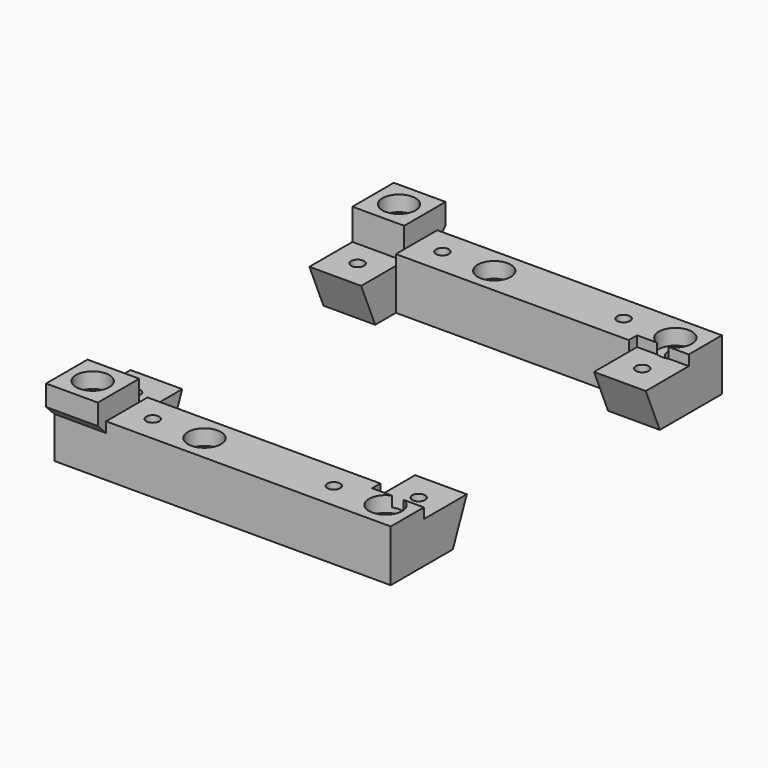
from build123d import *

# Parameters (mm, degrees)
BOX010_W          = 10
BOX010_H          = 11
BOX010_DEPTH      = 2
BOX011_W          = 10
BOX011_H          = 11
BOX011_DEPTH      = 2
BOX009_W          = 10
BOX009_H          = 11
BOX009_DEPTH      = 2
BOX008_W          = 10
BOX008_H          = 11
BOX008_DEPTH      = 2
CYLINDER018_R     = 3.2
CYLINDER018_DEPTH = 3
CYLINDER019_R     = 1.25
CYLINDER019_DEPTH = 10
CYLINDER017_R     = 3.2
CYLINDER017_DEPTH = 3
CYLINDER016_R     = 1.25
CYLINDER016_DEPTH = 10
CYLINDER011_R     = 1.25
CYLINDER011_DEPTH = 10
CYLINDER010_R     = 1.25
CYLINDER010_DEPTH = 10
CYLINDER014_R     = 1.25
CYLINDER014_DEPTH = 10
CYLINDER015_R     = 1.25
CYLINDER015_DEPTH = 10
CYLINDER007_R     = 3.2
CYLINDER007_DEPTH = 3
CYLINDER006_R     = 3.2
CYLINDER006_DEPTH = 3
CYLINDER004_R     = 1.6
CYLINDER004_DEPTH = 10
CYLINDER005_R     = 1.6
CYLINDER005_DEPTH = 10
BOX006_W          = 65
BOX006_H          = 10
BOX006_DEPTH      = 12
BOX006_ROLL_ANGLE = -23
BOX005_W          = 65
BOX005_H          = 10
BOX005_DEPTH      = 12
BOX005_ROLL_ANGLE = -23
CYLINDER002_R     = 1.25
CYLINDER002_DEPTH = 10
CYLINDER003_R     = 1.25
CYLINDER003_DEPTH = 10
CYLINDER001_R     = 1.25
CYLINDER001_DEPTH = 10
CYLINDER_R        = 1.25
CYLINDER_DEPTH    = 10
BOX004_W          = 45
BOX004_H          = 9
BOX004_DEPTH      = 10
BOX003_W          = 45
BOX003_H          = 9
BOX003_DEPTH      = 10
BOX001_W          = 65
BOX001_H          = 42
BOX001_DEPTH      = 10
BOX_W             = 65
BOX_H             = 80
BOX_DEPTH         = 10
BOX007_W          = 10
BOX007_H          = 10
BOX007_DEPTH      = 10
CHAMFER_SIZE      = 6
BOX002_W          = 10
BOX002_H          = 10
BOX002_DEPTH      = 10
CHAMFER002_SIZE   = 6


with BuildPart() as box010:
    # Box010 → Box010 (new body)
    with BuildSketch(Plane(origin=(55, 8, 8), x_dir=(1, 0, 0), z_dir=(0, 0, 1))):
        with Locations((5, 5.5)):
            Rectangle(BOX010_W, BOX010_H)
    extrude(amount=BOX010_DEPTH)


with BuildPart() as box011:
    # Box011 → Box011 (new body)
    with BuildSketch(Plane(origin=(55, 61, 8), x_dir=(1, 0, 0), z_dir=(0, 0, 1))):
        with Locations((5, 5.5)):
            Rectangle(BOX011_W, BOX011_H)
    extrude(amount=BOX011_DEPTH)


with BuildPart() as box009:
    # Box009 → Box009 (new body)
    with BuildSketch(Plane(origin=(0, 61, 8), x_dir=(1, 0, 0), z_dir=(0, 0, 1))):
        with Locations((5, 5.5)):
            Rectangle(BOX009_W, BOX009_H)
    extrude(amount=BOX009_DEPTH)


with BuildPart() as fusion019:
    # Box008 → Box008 (new body)
    with BuildSketch(Plane(origin=(0, 8, 8), x_dir=(1, 0, 0), z_dir=(0, 0, 1))):
        with Locations((5, 5.5)):
            Rectangle(BOX008_W, BOX008_H)
    extrude(amount=BOX008_DEPTH)

    # Fusion019: union Box010, Box011, Box009
    add(box010.part)
    add(box011.part)
    add(box009.part)


with BuildPart() as cylinder018:
    # Cylinder018 → Cylinder018 (new body)
    with BuildSketch(Plane(origin=(5, 3, 11), x_dir=(1, 0, 0), z_dir=(0, 0, 1))):
        Circle(CYLINDER018_R)
    extrude(amount=CYLINDER018_DEPTH)


with BuildPart() as fusion017:
    # Cylinder019 → Cylinder019 (new body)
    with BuildSketch(Plane(origin=(5, 3, 4), x_dir=(1, 0, 0), z_dir=(0, 0, 1))):
        Circle(CYLINDER019_R)
    extrude(amount=CYLINDER019_DEPTH)

    # Fusion017: union Cylinder018
    add(cylinder018.part)


with BuildPart() as fusion017_1:
    # Fusion017 placement: moved
    add(fusion017.part.moved(Location((0, 74, 0))))


with BuildPart() as cylinder017:
    # Cylinder017 → Cylinder017 (new body)
    with BuildSketch(Plane(origin=(5, 3, 11), x_dir=(1, 0, 0), z_dir=(0, 0, 1))):
        Circle(CYLINDER017_R)
    extrude(amount=CYLINDER017_DEPTH)


with BuildPart() as fusion018:
    # Cylinder016 → Cylinder016 (new body)
    with BuildSketch(Plane(origin=(5, 3, 4), x_dir=(1, 0, 0), z_dir=(0, 0, 1))):
        Circle(CYLINDER016_R)
    extrude(amount=CYLINDER016_DEPTH)

    # Fusion016: union Cylinder017
    add(cylinder017.part)

    # Fusion018: union Fusion017
    add(fusion017_1.part)


with BuildPart() as cylinder011:
    # Cylinder011 → Cylinder011 (new body)
    with BuildSketch(Plane.XY):
        Circle(CYLINDER011_R)
    extrude(amount=CYLINDER011_DEPTH)


with BuildPart() as fusion011:
    # Cylinder010 → Cylinder010 (new body)
    with BuildSketch(Plane(origin=(0, 70, 0), x_dir=(1, 0, 0), z_dir=(0, 0, 1))):
        Circle(CYLINDER010_R)
    extrude(amount=CYLINDER010_DEPTH)

    # Fusion011: union Cylinder011
    add(cylinder011.part)


with BuildPart() as fusion011_1:
    # Fusion011 placement: moved
    add(fusion011.part.moved(Location((50, 5, 0))))


with BuildPart() as cylinder014:
    # Cylinder014 → Cylinder014 (new body)
    with BuildSketch(Plane.XY):
        Circle(CYLINDER014_R)
    extrude(amount=CYLINDER014_DEPTH)


with BuildPart() as fusion012:
    # Cylinder015 → Cylinder015 (new body)
    with BuildSketch(Plane(origin=(0, 70, 0), x_dir=(1, 0, 0), z_dir=(0, 0, 1))):
        Circle(CYLINDER015_R)
    extrude(amount=CYLINDER015_DEPTH)

    # Fusion012: union Cylinder014
    add(cylinder014.part)


with BuildPart() as fusion012_1:
    # Fusion012 placement: moved
    add(fusion012.part.moved(Location((15, 5, 0))))


with BuildPart() as cylinder007:
    # Cylinder007 → Cylinder007 (new body)
    with BuildSketch(Plane(origin=(5, 0, 0), x_dir=(1, 0, 0), z_dir=(0, 0, 1))):
        Circle(CYLINDER007_R)
    extrude(amount=CYLINDER007_DEPTH)


with BuildPart() as cylinder006:
    # Cylinder006 → Cylinder006 (new body)
    with BuildSketch(Plane(origin=(5, 70, 0), x_dir=(1, 0, 0), z_dir=(0, 0, 1))):
        Circle(CYLINDER006_R)
    extrude(amount=CYLINDER006_DEPTH)


with BuildPart() as fusion006:
    # Fusion006 base: copy of Cylinder006
    add(cylinder006.part)

    # Fusion006: union Cylinder007
    add(cylinder007.part)


with BuildPart() as fusion006_1:
    # Fusion006 placement: moved
    add(fusion006.part.moved(Location((0, 5, 7))))


with BuildPart() as cylinder004:
    # Cylinder004 → Cylinder004 (new body)
    with BuildSketch(Plane(origin=(5, 0, 0), x_dir=(1, 0, 0), z_dir=(0, 0, 1))):
        Circle(CYLINDER004_R)
    extrude(amount=CYLINDER004_DEPTH)


with BuildPart() as cylinder005:
    # Cylinder005 → Cylinder005 (new body)
    with BuildSketch(Plane(origin=(5, 70, 0), x_dir=(1, 0, 0), z_dir=(0, 0, 1))):
        Circle(CYLINDER005_R)
    extrude(amount=CYLINDER005_DEPTH)


with BuildPart() as fusion007:
    # Fusion008 base: copy of Cylinder005
    add(cylinder005.part)

    # Fusion008: union Cylinder004
    add(cylinder004.part)


with BuildPart() as fusion007_1:
    # Fusion008 placement: moved
    add(fusion007.part.moved(Location((0, 5, 0))))

    # Fusion007: union Fusion006
    add(fusion006_1.part)


with BuildPart() as fusion007_2:
    # Fusion007 placement: moved
    add(fusion007_1.part.moved(Location((20, 0, 0))))


with BuildPart() as fusion004:
    # Fusion004 base: copy of Cylinder006
    add(cylinder006.part)

    # Fusion004: union Cylinder007
    add(cylinder007.part)


with BuildPart() as fusion004_1:
    # Fusion004 placement: moved
    add(fusion004.part.moved(Location((0, 5, 7))))


with BuildPart() as fusion014:
    # Fusion003 base: copy of Cylinder005
    add(cylinder005.part)

    # Fusion003: union Cylinder004
    add(cylinder004.part)


with BuildPart() as fusion014_1:
    # Fusion003 placement: moved
    add(fusion014.part.moved(Location((0, 5, 0))))

    # Fusion005: union Fusion004
    add(fusion004_1.part)


with BuildPart() as fusion014_2:
    # Fusion005 placement: moved
    add(fusion014_1.part.moved(Location((55, 0, 0))))

    # Fusion009: union Fusion007
    add(fusion007_2.part)

    # Fusion014: union Fusion011, Fusion012
    add(fusion011_1.part)
    add(fusion012_1.part)


with BuildPart() as box006:
    # Box006 → Box006 (new body)
    with BuildSketch(Plane.XY):
        with Locations((32.5, 5)):
            Rectangle(BOX006_W, BOX006_H)
    extrude(amount=BOX006_DEPTH)


with BuildPart() as box006_1:
    # Box006 roll: moved
    add(box006.part.rotate(Axis((0, 0, 0), (1, 0, 0)), BOX006_ROLL_ANGLE))


with BuildPart() as box006_2:
    # Box006 placement: moved
    add(box006_1.part.moved(Location((0, 15, 0))))


with BuildPart() as box005:
    # Box005 → Box005 (new body)
    with BuildSketch(Plane.XY):
        with Locations((32.5, 5)):
            Rectangle(BOX005_W, BOX005_H)
    extrude(amount=BOX005_DEPTH)


with BuildPart() as box005_1:
    # Box005 roll: moved
    add(box005.part.rotate(Axis((0, 0, 0), (1, 0, 0)), BOX005_ROLL_ANGLE))


with BuildPart() as box005_2:
    # Box005 placement: moved
    add(box005_1.part.moved(Location((0, 15, 0))))


with BuildPart() as fusion013:
    # Part__Mirroring: instance of Box005
    add(box005_2.part.mirror(Plane(origin=(0, 0, 0), x_dir=(1, 0, 0), z_dir=(0, 1, 0))))


with BuildPart() as fusion013_1:
    # Part__Mirroring placement: moved
    add(fusion013.part.moved(Location((0, 80, 0))))

    # Fusion013: union Box006
    add(box006_2.part)


with BuildPart() as cylinder002:
    # Cylinder002 → Cylinder002 (new body)
    with BuildSketch(Plane(origin=(0, 54, 0), x_dir=(1, 0, 0), z_dir=(0, 0, 1))):
        Circle(CYLINDER002_R)
    extrude(amount=CYLINDER002_DEPTH)


with BuildPart() as fusion001:
    # Cylinder003 → Cylinder003 (new body)
    with BuildSketch(Plane.XY):
        Circle(CYLINDER003_R)
    extrude(amount=CYLINDER003_DEPTH)

    # Fusion001: union Cylinder002
    add(cylinder002.part)


with BuildPart() as fusion001_1:
    # Fusion001 placement: moved
    add(fusion001.part.moved(Location((60, 13, 0))))


with BuildPart() as cylinder001:
    # Cylinder001 → Cylinder001 (new body)
    with BuildSketch(Plane(origin=(0, 54, 0), x_dir=(1, 0, 0), z_dir=(0, 0, 1))):
        Circle(CYLINDER001_R)
    extrude(amount=CYLINDER001_DEPTH)


with BuildPart() as fusion002:
    # Cylinder → Cylinder (new body)
    with BuildSketch(Plane.XY):
        Circle(CYLINDER_R)
    extrude(amount=CYLINDER_DEPTH)

    # Fusion: union Cylinder001
    add(cylinder001.part)


with BuildPart() as fusion002_1:
    # Fusion placement: moved
    add(fusion002.part.moved(Location((5, 13, 0))))

    # Fusion002: union Fusion001
    add(fusion001_1.part)


with BuildPart() as box004:
    # Box004 → Box004 (new body)
    with BuildSketch(Plane(origin=(10, 61, 0), x_dir=(1, 0, 0), z_dir=(0, 0, 1))):
        with Locations((22.5, 4.5)):
            Rectangle(BOX004_W, BOX004_H)
    extrude(amount=BOX004_DEPTH)


with BuildPart() as fusion010:
    # Box003 → Box003 (new body)
    with BuildSketch(Plane(origin=(10, 10, 0), x_dir=(1, 0, 0), z_dir=(0, 0, 1))):
        with Locations((22.5, 4.5)):
            Rectangle(BOX003_W, BOX003_H)
    extrude(amount=BOX003_DEPTH)

    # Fusion010: union Box004
    add(box004.part)


with BuildPart() as cube001:
    # Box001 → Box001 (new body)
    with BuildSketch(Plane(origin=(0, 19, 0), x_dir=(1, 0, 0), z_dir=(0, 0, 1))):
        with Locations((32.5, 21)):
            Rectangle(BOX001_W, BOX001_H)
    extrude(amount=BOX001_DEPTH)


with BuildPart() as cut009:
    # Box → Box (new body)
    with BuildSketch(Plane.XY):
        with Locations((32.5, 40)):
            Rectangle(BOX_W, BOX_H)
    extrude(amount=BOX_DEPTH)

    # Cut: cut Cube001
    add(cube001.part, mode=Mode.SUBTRACT)

    # Cut006: cut Fusion010
    add(fusion010.part, mode=Mode.SUBTRACT)

    # Cut007: cut Fusion002
    add(fusion002_1.part, mode=Mode.SUBTRACT)

    # Cut008: cut Fusion013
    add(fusion013_1.part, mode=Mode.SUBTRACT)

    # Cut009: cut Fusion014
    add(fusion014_2.part, mode=Mode.SUBTRACT)


with BuildPart() as chamfer_body:
    # Box007 → Box007 (new body)
    with BuildSketch(Plane(origin=(0, -2, 4), x_dir=(1, 0, 0), z_dir=(0, 0, 1))):
        with Locations((5, 5)):
            Rectangle(BOX007_W, BOX007_H)
    extrude(amount=BOX007_DEPTH)

    # Chamfer
    chamfer_edges = [chamfer_body.edges().sort_by_distance(p)[0] for p in [
        (5, -2, 4),
    ]]
    chamfer(chamfer_edges, length=CHAMFER_SIZE)


with BuildPart() as part_mirroring001:
    # Part__Mirroring001: instance of Chamfer body
    add(chamfer_body.part.mirror(Plane(origin=(0, 0, 0), x_dir=(1, 0, 0), z_dir=(0, 1, 0))))


with BuildPart() as part_mirroring001_1:
    # Part__Mirroring001 placement: moved
    add(part_mirroring001.part.moved(Location((0, 80, 0))))


with BuildPart() as gearbox_holder:
    # Box002 → Box002 (new body)
    with BuildSketch(Plane(origin=(0, -2, 4), x_dir=(1, 0, 0), z_dir=(0, 0, 1))):
        with Locations((5, 5)):
            Rectangle(BOX002_W, BOX002_H)
    extrude(amount=BOX002_DEPTH)

    # Chamfer002
    chamfer002_edges = [gearbox_holder.edges().sort_by_distance(p)[0] for p in [
        (5, -2, 4),
    ]]
    chamfer(chamfer002_edges, length=CHAMFER002_SIZE)

    # Fusion015: union Cut009, Part__Mirroring001
    add(cut009.part)
    add(part_mirroring001_1.part)

    # Cut010: cut Fusion018
    add(fusion018.part, mode=Mode.SUBTRACT)

    # Cut011: cut Fusion019
    add(fusion019.part, mode=Mode.SUBTRACT)


solid = gearbox_holder.part
